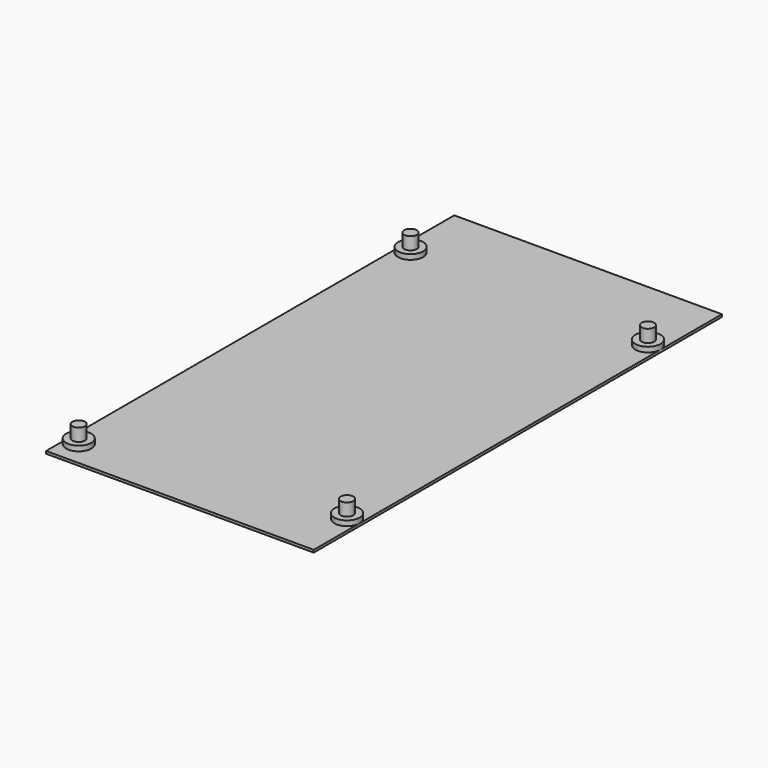
from build123d import *

# Parameters (mm, degrees)
F0_R     = 1.25
F1_DEPTH = 1.5
F0_R_2   = 2.5
F2_DEPTH = 0.5
F3_DEPTH = 4


with BuildPart() as f1:
    # F0 (on Top) → F1 (new body)
    with BuildSketch(Plane.XY):
        with BuildLine():
            ThreePointArc((-17.7676470588, 31.3529411765), (-20.2676470588, 33.8529411765), (-22.7676470588, 31.3529411765))
            ThreePointArc((-22.7676470588, 31.3529411765), (-20.2676470588, 28.8529411765), (-17.7676470588, 31.3529411765))
        make_face()
        with Locations((-20.2676470588, 31.3529411765)):
            Circle(F0_R, mode=Mode.SUBTRACT)
    extrude(amount=F1_DEPTH)


with BuildPart() as f1b:
    # F0 (on Top) → F1, piece 2 (new body)
    with BuildSketch(Plane.XY):
        with Locations((28.0323529412, 30.0529411765)):
            Circle(F0_R_2)
        with Locations((28.0323529412, 30.0529411765)):
            Circle(F0_R, mode=Mode.SUBTRACT)
    extrude(amount=F1_DEPTH)


with BuildPart() as f1c:
    # F0 (on Top) → F1, piece 3 (new body)
    with BuildSketch(Plane.XY):
        with BuildLine():
            ThreePointArc((-17.7676470588, -51.2470588235), (-20.2676470588, -48.7470588235), (-22.7676470588, -51.2470588235))
            ThreePointArc((-22.7676470588, -51.2470588235), (-20.2676470588, -53.7470588235), (-17.7676470588, -51.2470588235))
        make_face()
        with Locations((-20.2676470588, -51.2470588235)):
            Circle(F0_R, mode=Mode.SUBTRACT)
    extrude(amount=F1_DEPTH)


with BuildPart() as f1d:
    # F0 (on Top) → F1, piece 4 (new body)
    with BuildSketch(Plane.XY):
        with Locations((28.0323529412, -44.8470588235)):
            Circle(F0_R_2)
        with Locations((28.0323529412, -44.8470588235)):
            Circle(F0_R, mode=Mode.SUBTRACT)
    extrude(amount=F1_DEPTH)


with BuildPart() as f2:
    # F0 (on Top) → F2 (new body)
    with BuildSketch(Plane.XY):
        Polygon((30.5323529412, 45.3529411765), (-22.7676470588, 45.3529411765), (-22.7676470588, 31.3529411765), (-22.7676470588, -51.2470588235), (-22.7676470588, -56.2470588235), (30.5323529412, -56.2470588235), (30.5323529412, -44.8470588235), (30.5323529412, 30.0529411765), align=None)
        with BuildLine():
            ThreePointArc((-17.7676470588, -51.2470588235), (-20.2676470588, -53.7470588235), (-22.7676470588, -51.2470588235))
            ThreePointArc((-22.7676470588, -51.2470588235), (-20.2676470588, -48.7470588235), (-17.7676470588, -51.2470588235))
        make_face(mode=Mode.SUBTRACT)
        with Locations((28.0323529412, -44.8470588235)):
            Circle(F0_R_2, mode=Mode.SUBTRACT)
        with BuildLine():
            ThreePointArc((-17.7676470588, 31.3529411765), (-20.2676470588, 28.8529411765), (-22.7676470588, 31.3529411765))
            ThreePointArc((-22.7676470588, 31.3529411765), (-20.2676470588, 33.8529411765), (-17.7676470588, 31.3529411765))
        make_face(mode=Mode.SUBTRACT)
        with Locations((28.0323529412, 30.0529411765)):
            Circle(F0_R_2, mode=Mode.SUBTRACT)
        with BuildLine():
            ThreePointArc((-17.7676470588, 31.3529411765), (-20.2676470588, 33.8529411765), (-22.7676470588, 31.3529411765))
            ThreePointArc((-22.7676470588, 31.3529411765), (-20.2676470588, 28.8529411765), (-17.7676470588, 31.3529411765))
        make_face()
        with Locations((-20.2676470588, 31.3529411765)):
            Circle(F0_R, mode=Mode.SUBTRACT)
        with BuildLine():
            ThreePointArc((-17.7676470588, -51.2470588235), (-20.2676470588, -48.7470588235), (-22.7676470588, -51.2470588235))
            ThreePointArc((-22.7676470588, -51.2470588235), (-20.2676470588, -53.7470588235), (-17.7676470588, -51.2470588235))
        make_face()
        with Locations((-20.2676470588, -51.2470588235)):
            Circle(F0_R, mode=Mode.SUBTRACT)
        with Locations((28.0323529412, -44.8470588235)):
            Circle(F0_R_2)
        with Locations((28.0323529412, -44.8470588235)):
            Circle(F0_R, mode=Mode.SUBTRACT)
        with Locations((28.0323529412, 30.0529411765)):
            Circle(F0_R_2)
        with Locations((28.0323529412, 30.0529411765)):
            Circle(F0_R, mode=Mode.SUBTRACT)
    extrude(amount=F2_DEPTH)


with BuildPart() as f3:
    # F0 (on Top) → F3 (new body)
    with BuildSketch(Plane.XY):
        with Locations((-20.2676470588, 31.3529411765)):
            Circle(F0_R)
    extrude(amount=F3_DEPTH)


with BuildPart() as f3b:
    # F0 (on Top) → F3, piece 2 (new body)
    with BuildSketch(Plane.XY):
        with Locations((28.0323529412, 30.0529411765)):
            Circle(F0_R)
    extrude(amount=F3_DEPTH)


with BuildPart() as f3c:
    # F0 (on Top) → F3, piece 3 (new body)
    with BuildSketch(Plane.XY):
        with Locations((-20.2676470588, -51.2470588235)):
            Circle(F0_R)
    extrude(amount=F3_DEPTH)


with BuildPart() as f3d:
    # F0 (on Top) → F3, piece 4 (new body)
    with BuildSketch(Plane.XY):
        with Locations((28.0323529412, -44.8470588235)):
            Circle(F0_R)
    extrude(amount=F3_DEPTH)


solid = Compound([f1.part, f1b.part, f1c.part, f1d.part, f2.part, f3.part, f3b.part, f3c.part, f3d.part])
